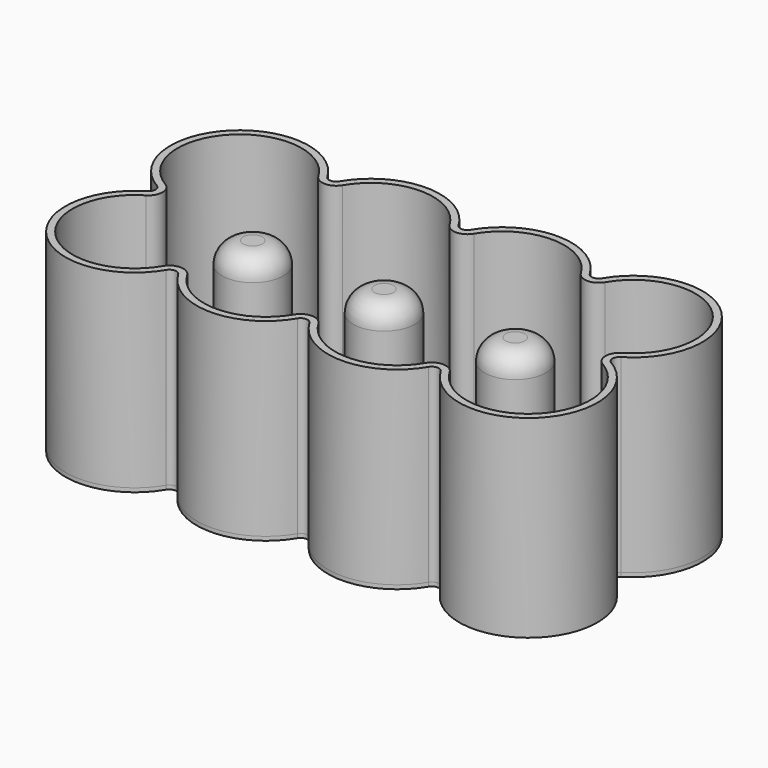
from build123d import *

# Parameters (mm, degrees)
F1_DEPTH = 0.6
F2_R     = 1.08
F4_DEPTH = 29
F5_R     = 4.6987041662
F6_DEPTH = 27
F7_R     = 3.24
F8_SIZE  = 0.8


with BuildPart() as f1:
    # F0 (on Top) → F1 (new body)
    with BuildSketch(Plane.XY):
        with BuildLine():
            ThreePointArc((30.12, 23.4168847748), (20.08, 30.66), (10.04, 23.4168847748))
            ThreePointArc((10.04, 23.4168847748), (-7.481189745, 27.561189745), (-3.3368847748, 10.04))
            ThreePointArc((-3.3368847748, 10.04), (-7.481189745, -7.481189745), (10.04, -3.3368847748))
            ThreePointArc((10.04, -3.3368847748), (20.08, -10.58), (30.12, -3.3368847748))
            ThreePointArc((30.12, -3.3368847748), (40.16, -10.58), (50.2, -3.3368847748))
            ThreePointArc((50.2, -3.3368847748), (67.721189745, -7.481189745), (63.5768847748, 10.04))
            ThreePointArc((63.5768847748, 10.04), (67.721189745, 27.561189745), (50.2, 23.4168847748))
            ThreePointArc((50.2, 23.4168847748), (40.16, 30.66), (30.12, 23.4168847748))
        make_face()
    extrude(amount=F1_DEPTH)

    # F2
    f2_edges = [f1.edges().sort_by_distance(p)[0] for p in [
        (10.04, -3.336885, 0.3),
        (30.12, -3.336885, 0.3),
        (50.2, -3.336885, 0.3),
        (63.576885, 10.04, 0.3),
        (50.2, 23.416885, 0.3),
        (30.12, 23.416885, 0.3),
        (10.04, 23.416885, 0.3),
        (-3.336885, 10.04, 0.3),
    ]]
    fillet(f2_edges, radius=F2_R)

    # F3 (on face) → F4 (join)
    with BuildSketch(Plane.XY.offset(0.6)):
        with BuildLine():
            ThreePointArc((10.969948542, 25.459903571), (10.04, 24.9290808731), (9.110051458, 25.459903571))
            ThreePointArc((9.110051458, 25.459903571), (-7.481189745, 27.561189745), (-5.379903571, 10.969948542))
            ThreePointArc((-5.379903571, 10.969948542), (-4.8490808731, 10.04), (-5.379903571, 9.110051458))
            ThreePointArc((-5.379903571, 9.110051458), (-7.481189745, -7.481189745), (9.110051458, -5.379903571))
            ThreePointArc((9.110051458, -5.379903571), (10.04, -4.8490808731), (10.969948542, -5.379903571))
            ThreePointArc((10.969948542, -5.379903571), (20.08, -10.58), (29.190051458, -5.379903571))
            ThreePointArc((29.190051458, -5.379903571), (30.12, -4.8490808731), (31.049948542, -5.379903571))
            ThreePointArc((31.049948542, -5.379903571), (40.16, -10.58), (49.270051458, -5.379903571))
            ThreePointArc((49.270051458, -5.379903571), (50.2, -4.8490808731), (51.129948542, -5.379903571))
            ThreePointArc((51.129948542, -5.379903571), (67.721189745, -7.481189745), (65.619903571, 9.110051458))
            ThreePointArc((65.619903571, 9.110051458), (65.0890808731, 10.04), (65.619903571, 10.969948542))
            ThreePointArc((65.619903571, 10.969948542), (67.721189745, 27.561189745), (51.129948542, 25.459903571))
            ThreePointArc((51.129948542, 25.459903571), (50.2, 24.9290808731), (49.270051458, 25.459903571))
            ThreePointArc((49.270051458, 25.459903571), (40.16, 30.66), (31.049948542, 25.459903571))
            ThreePointArc((31.049948542, 25.459903571), (30.12, 24.9290808731), (29.190051458, 25.459903571))
            ThreePointArc((29.190051458, 25.459903571), (20.08, 30.66), (10.969948542, 25.459903571))
        make_face()
        with BuildLine():
            ThreePointArc((8.180102916, 24.9107262688), (10.04, 23.8490808731), (11.899897084, 24.9107262688))
            ThreePointArc((11.899897084, 24.9107262688), (20.08, 29.58), (28.260102916, 24.9107262688))
            ThreePointArc((28.260102916, 24.9107262688), (30.12, 23.8490808731), (31.979897084, 24.9107262688))
            ThreePointArc((31.979897084, 24.9107262688), (40.16, 29.58), (48.340102916, 24.9107262688))
            ThreePointArc((48.340102916, 24.9107262688), (50.2, 23.8490808731), (52.059897084, 24.9107262688))
            ThreePointArc((52.059897084, 24.9107262688), (66.9575144213, 26.7975144213), (65.0707262688, 11.899897084))
            ThreePointArc((65.0707262688, 11.899897084), (64.0090808731, 10.04), (65.0707262688, 8.180102916))
            ThreePointArc((65.0707262688, 8.180102916), (66.9575144213, -6.7175144213), (52.059897084, -4.8307262688))
            ThreePointArc((52.059897084, -4.8307262688), (50.2, -3.7690808731), (48.340102916, -4.8307262688))
            ThreePointArc((48.340102916, -4.8307262688), (40.16, -9.5), (31.979897084, -4.8307262688))
            ThreePointArc((31.979897084, -4.8307262688), (30.12, -3.7690808731), (28.260102916, -4.8307262688))
            ThreePointArc((28.260102916, -4.8307262688), (20.08, -9.5), (11.899897084, -4.8307262688))
            ThreePointArc((11.899897084, -4.8307262688), (10.04, -3.7690808731), (8.180102916, -4.8307262688))
            ThreePointArc((8.180102916, -4.8307262688), (-6.7175144213, -6.7175144213), (-4.8307262688, 8.180102916))
            ThreePointArc((-4.8307262688, 8.180102916), (-3.7690808731, 10.04), (-4.8307262688, 11.899897084))
            ThreePointArc((-4.8307262688, 11.899897084), (-6.7175144213, 26.7975144213), (8.180102916, 24.9107262688))
        make_face(mode=Mode.SUBTRACT)
    extrude(amount=F4_DEPTH)

    # F5 (on face) → F6 (join)
    with BuildSketch(Plane.XY.offset(0.6)):
        with Locations((10.04, 10.04)):
            Circle(F5_R)
        with Locations((30.12, 10.04)):
            Circle(F5_R)
        with Locations((50.2, 10.04)):
            Circle(F5_R)
    extrude(amount=F6_DEPTH)

    # F7
    f7_edges = [f1.edges().sort_by_distance(p)[0] for p in [
        (5.341296, 10.04, 27.6),
        (25.421296, 10.04, 27.6),
        (45.501296, 10.04, 27.6),
    ]]
    fillet(f7_edges, radius=F7_R)

    # F8
    f8_edges = [f1.edges().sort_by_distance(p)[0] for p in [
        (-6.717514, 26.797514, 0.6),
        (-3.769081, 10.04, 0.6),
        (10.04, 23.849081, 0.6),
        (-6.717514, -6.717514, 0.6),
        (20.08, 29.58, 0.6),
        (10.04, -3.769081, 0.6),
        (30.12, 23.849081, 0.6),
        (20.08, -9.5, 0.6),
        (40.16, 29.58, 0.6),
        (30.12, -3.769081, 0.6),
        (50.2, 23.849081, 0.6),
        (40.16, -9.5, 0.6),
        (66.957514, 26.797514, 0.6),
        (50.2, -3.769081, 0.6),
        (64.009081, 10.04, 0.6),
        (66.957514, -6.717514, 0.6),
        (5.341296, 10.04, 0.6),
        (25.421296, 10.04, 0.6),
        (45.501296, 10.04, 0.6),
    ]]
    chamfer(f8_edges, length=F8_SIZE)


solid = f1.part
